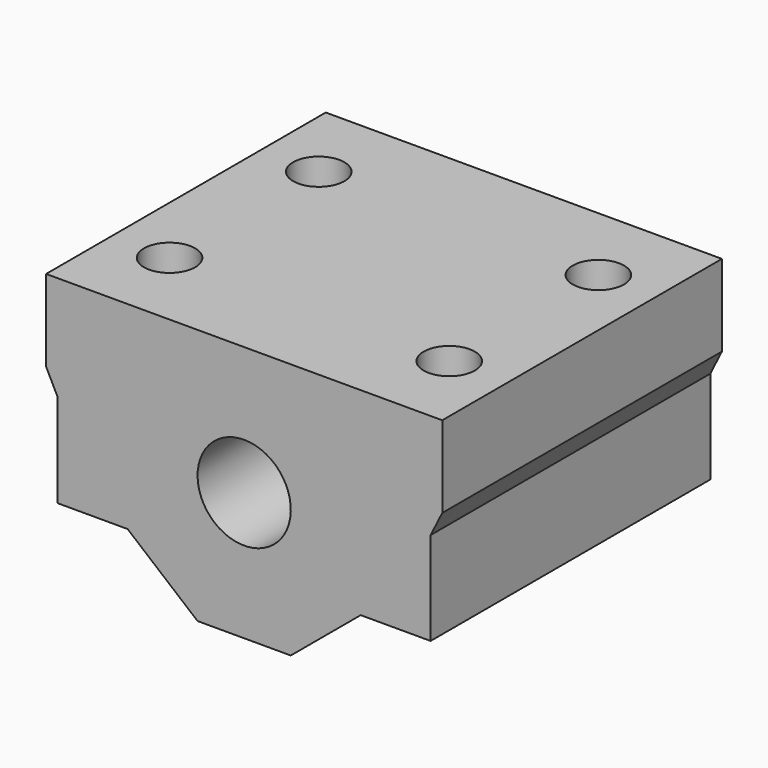
from build123d import *

# Parameters (mm, degrees)
F1_DEPTH = 30
F3_D     = 4.4
F3_DEPTH = 8
F3_TIP   = 1.3218933619


with BuildPart() as f1:
    # F0 (on Front) → F1 (new body)
    with BuildSketch(Plane.XZ):
        Polygon((17, 11), (0, 11), (-17, 11), (-17, 4), (-16, 2), (-16, -6), (-10, -6), (-4, -11), (0, -11), (4, -11), (10, -6), (16, -6), (16, 2), (17, 4), align=None)
        with BuildLine():
            ThreePointArc((0, -4), (-4, 0), (0, 4))
            ThreePointArc((0, 4), (4, 0), (0, -4))
        make_face(mode=Mode.SUBTRACT)
    extrude(amount=F1_DEPTH)

    # F3
    with Locations(Plane.XY.offset(11)):
        with Locations((-12, -23), (-12, -7), (12, -7), (12, -23)):
            Hole(F3_D / 2, depth=F3_DEPTH)
            with Locations((0, 0, -(F3_DEPTH + F3_TIP / 2))):  # 118° drill point
                Cone(0, F3_D / 2, F3_TIP, mode=Mode.SUBTRACT)


solid = f1.part
